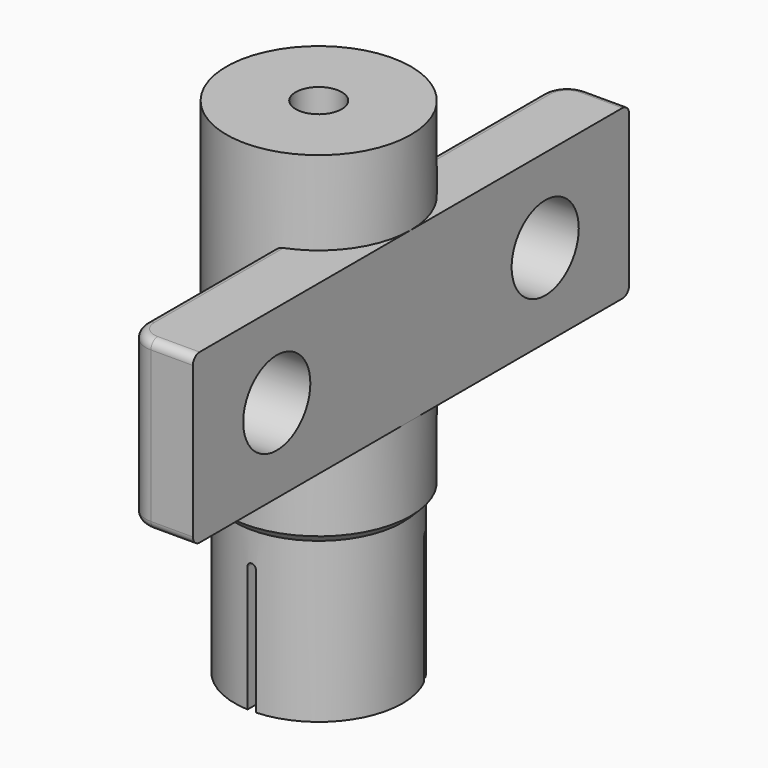
from build123d import *

# Parameters (mm, degrees)
POCKET_DEPTH       = 146.174962
POLARPATTERN_COUNT = 3
SKETCH002_W        = 65
SKETCH002_H        = 20
SKETCH002_R        = 5
PAD_DEPTH          = 8
FILLET_R           = 3
FILLET001_R        = 1


with BuildPart() as part:
    # Sketch → Revolution (revolve)
    with BuildSketch(Plane.XZ):
        Polygon((2.75, 40), (11, 40), (11, 0), (10, -1), (10, -20), (6.014154, -20), (2.75, -13), align=None)
    revolve(axis=Axis((0, 0, 0), (0, 0, 1)))

    # Sketch001 (on DatumPlane) → Pocket (cut, through all)
    with BuildSketch(Plane(origin=(0, 0, -20), x_dir=(1, 0, 0), z_dir=(0, 1, 0))):
        with BuildLine():
            Line((0.5, -15), (0.5, 20))
            Line((0.5, 20), (-0.5, 20))
            Line((-0.5, 20), (-0.5, -15))
            ThreePointArc((-0.5, -15), (0, -15.5), (0.5, -15))
        make_face()
    pocket = extrude(amount=-POCKET_DEPTH, mode=Mode.SUBTRACT)

    # PolarPattern: Pocket ×3 about axis
    polarpattern_axis = Axis((0, 0, 0), (0, 0, 1))
    for i in range(1, POLARPATTERN_COUNT):
        add(pocket.rotate(polarpattern_axis, i * 360 / POLARPATTERN_COUNT), mode=Mode.SUBTRACT)

    # Sketch002 (on DatumPlane) → Pad (join)
    with BuildSketch(Plane.YZ.offset(11)):
        with Locations((0, 20)):
            Rectangle(SKETCH002_W, SKETCH002_H)
        with Locations((-20, 20)):
            Circle(SKETCH002_R, mode=Mode.SUBTRACT)
        with Locations((20, 20)):
            Circle(SKETCH002_R, mode=Mode.SUBTRACT)
    extrude(amount=-PAD_DEPTH)

    # Fillet
    fillet_edges = [part.edges().sort_by_distance(p)[0] for p in [
        (3, -32.5, 20),
        (3, 32.5, 20),
    ]]
    fillet(fillet_edges, radius=FILLET_R)

    # Fillet001
    fillet001_edges = [part.edges().sort_by_distance(p)[0] for p in [
        (3, 20.041503, 30),
        (3, 20.041503, 10),
        (3, -20.041503, 10),
        (3, -20.041503, 30),
    ]]
    fillet(fillet001_edges, radius=FILLET001_R)


solid = part.part
